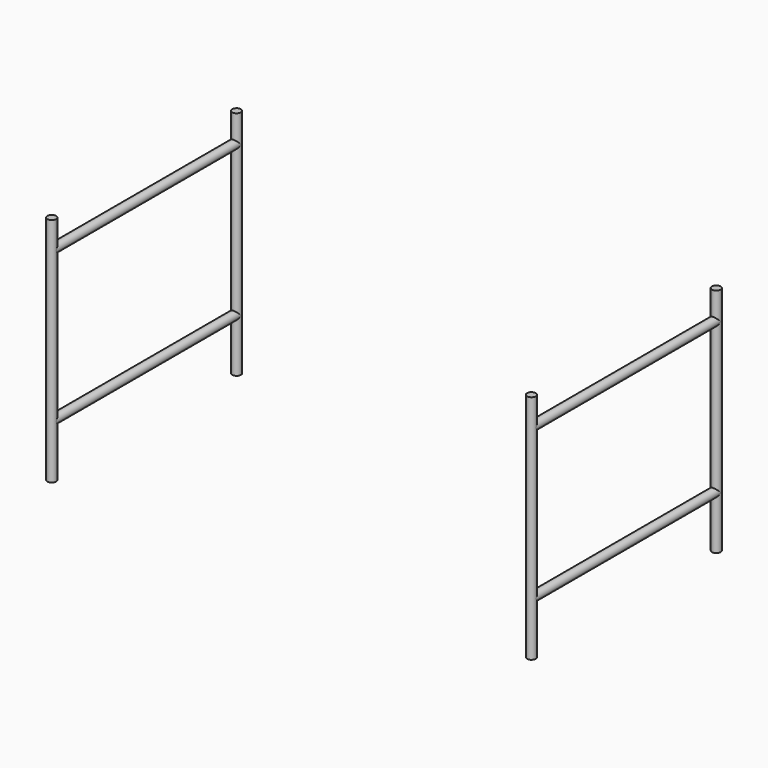
from build123d import *

# Parameters (mm, degrees)
F0_R     = 12.5
F1_DEPTH = 660
F2_R     = 12.5
F3_DEPTH = 660


with BuildPart() as f1:
    # F0 (on Top) → F1 (new body)
    with BuildSketch(Plane.XY):
        with Locations((-685, 0)):
            Circle(F0_R)
        with Locations((-685, -660)):
            Circle(F0_R)
        with Locations((685, -660)):
            Circle(F0_R)
        with Locations((685, 0)):
            Circle(F0_R)
    extrude(amount=F1_DEPTH)


with BuildPart() as f3:
    # F2 (on Front) → F3 (new body)
    with BuildSketch(Plane.XZ):
        with Locations((-685, 580)):
            Circle(F2_R)
        with Locations((-685, 150)):
            Circle(F2_R)
        with Locations((685, 580)):
            Circle(F2_R)
        with Locations((685, 150)):
            Circle(F2_R)
    extrude(amount=F3_DEPTH)


solid = Compound([f1.part, f3.part])
